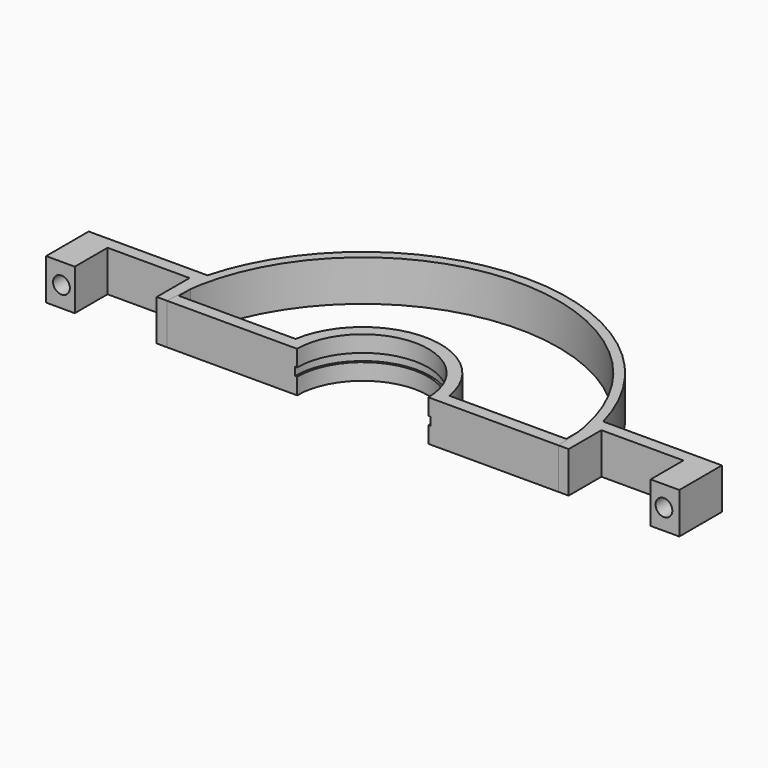
from build123d import *

# Parameters (mm, degrees)
PAD_DEPTH      = 10
SKETCH004_R    = 2.05
HOLE_DEPTH     = 25
SKETCH006_R    = 16.5
POCKET_DEPTH   = 2
PAD001_DEPTH   = 10
SKETCH005_R    = 2.05
HOLE001_DEPTH  = 25
HOLE001_TIPS_R = 2.05


with BuildPart() as obj1:
    # Sketch → Pad (new body)
    with BuildSketch(Plane.XY):
        with BuildLine():
            ThreePointArc((16, 0), (0, 16), (-16, 0))
            Line((-16, 0), (-50.25, 0))
            Line((-50.25, 0), (-50.25, 10))
            Line((-50.25, 10), (-70.25, 10))
            Line((-70.25, 10), (-70.25, 0))
            Line((-70.25, 0), (-77.25, 0))
            Line((-77.25, 0), (-77.25, 13))
            Line((-77.25, 13), (-47.25, 13))
            Line((-47.25, 13), (-47.25, 3))
            Line((-47.25, 3), (-18.761663, 3))
            ThreePointArc((18.761663, 3), (0, 19), (-18.761663, 3))
            Line((47.25, 3), (18.761663, 3))
            Line((47.25, 13), (47.25, 3))
            Line((77.25, 13), (47.25, 13))
            Line((77.25, 0), (77.25, 13))
            Line((70.25, 0), (77.25, 0))
            Line((70.25, 10), (70.25, 0))
            Line((50.25, 10), (70.25, 10))
            Line((50.25, 0), (50.25, 10))
            Line((16, 0), (50.25, 0))
        make_face()
    extrude(amount=PAD_DEPTH)

    # Sketch004 → Hole (cut)
    with BuildSketch(Plane.XZ):
        with Locations((-73.5, 5)):
            Circle(SKETCH004_R)
        with Locations((73.5, 5)):
            Circle(SKETCH004_R)
    extrude(amount=-HOLE_DEPTH, mode=Mode.SUBTRACT)

    # Sketch006 → Pocket (cut)
    with BuildSketch(Plane.XY.offset(6)):
        Circle(SKETCH006_R)
    extrude(amount=-POCKET_DEPTH, mode=Mode.SUBTRACT)


with BuildPart() as obj2:
    # Sketch003 → Pad001 (new body)
    with BuildSketch(Plane.XY):
        with BuildLine():
            ThreePointArc((47.75, 0), (0, 47.75), (-47.75, 0))
            Line((-47.75, 0), (-50.25, 0))
            Line((-50.25, 0), (-50.25, 10))
            Line((-50.25, 10), (-70.25, 10))
            Line((-70.25, 10), (-70.25, 0))
            Line((-70.25, 0), (-77.25, 0))
            Line((-77.25, 0), (-77.25, 13))
            Line((-77.25, 13), (-48.280431, 13))
            ThreePointArc((48.280431, 13), (0, 50), (-48.280431, 13))
            Line((77.25, 13), (48.280431, 13))
            Line((77.25, 0), (77.25, 13))
            Line((70.25, 0), (77.25, 0))
            Line((70.25, 10), (70.25, 0))
            Line((50.25, 10), (70.25, 10))
            Line((50.25, 0), (50.25, 10))
            Line((47.75, 0), (50.25, 0))
        make_face()
    extrude(amount=PAD001_DEPTH)

    # Sketch005 → Hole001 (cut)
    with BuildSketch(Plane.XZ):
        with Locations((-73.5, 5)):
            Circle(SKETCH005_R)
        with Locations((73.5, 5)):
            Circle(SKETCH005_R)
    extrude(amount=-HOLE001_DEPTH, mode=Mode.SUBTRACT)

    # Hole001 tips → Hole001 tip 1 section 0
    with BuildSketch(Plane.XZ.offset(-25), mode=Mode.PRIVATE) as hole001_tip_1_s0:
        with Locations((-73.5, 5)):
            Circle(HOLE001_TIPS_R)
    loft([hole001_tip_1_s0.sketch, Vertex(-73.5, 26.231764, 5)], mode=Mode.SUBTRACT)

    # Hole001 tips → Hole001 tip 2 section 0
    with BuildSketch(Plane.XZ.offset(-25), mode=Mode.PRIVATE) as hole001_tip_2_s0:
        with Locations((73.5, 5)):
            Circle(HOLE001_TIPS_R)
    loft([hole001_tip_2_s0.sketch, Vertex(73.5, 26.231764, 5)], mode=Mode.SUBTRACT)


solid = Compound([obj1.part, obj2.part])
